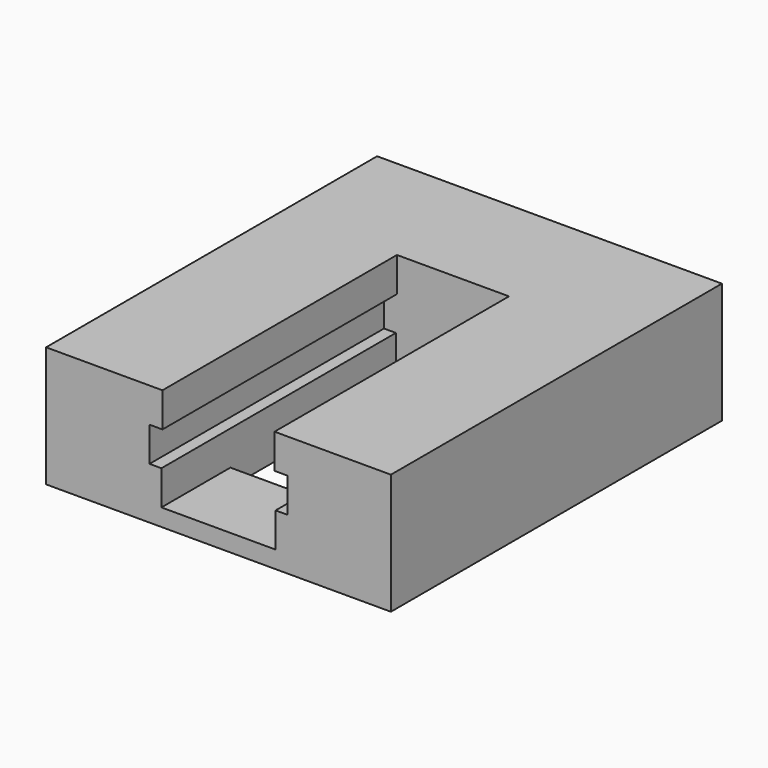
from build123d import *

# Parameters (mm, degrees)
F0_W     = 0.75
F0_H     = 2
F1_DEPTH = 12
F2_W     = 6.62
F2_H     = 2
F3_DEPTH = 12
F4_DEPTH = 8
F5_W     = 8
F5_H     = 4
F6_DEPTH = 4
F7_W     = 6.62
F7_H     = 12
F8_DEPTH = 3
F9_DEPTH = 3


with BuildPart() as f1:
    # F0 (on Front) → F1 (new body, symmetric)
    with BuildSketch(Plane.XZ):
        Polygon((-4, 4), (-10, 4), (-10, -3), (10, -3), (10, 4), (4, 4), (4, 2), (4, 0), (-4, 0), (-4, 2), align=None)
        with Locations((-3.625, 3)):
            Rectangle(F0_W, F0_H)
        with Locations((3.625, 3)):
            Rectangle(F0_W, F0_H)
    extrude(amount=F1_DEPTH, both=True)

    # F2 (on Front) → F3 (cut)
    with BuildSketch(Plane.XZ):
        with Locations((0, -1)):
            Rectangle(F2_W, F2_H)
    extrude(amount=F3_DEPTH, mode=Mode.SUBTRACT)

    # F2 (on Front) → F4 (cut)
    with BuildSketch(Plane.XZ):
        with Locations((0, -1)):
            Rectangle(F2_W, F2_H)
    extrude(amount=-F4_DEPTH, mode=Mode.SUBTRACT)

    # F5 (on Top) → F6 (join)
    with BuildSketch(Plane.XY):
        with Locations((0, 10)):
            Rectangle(F5_W, F5_H)
    extrude(amount=F6_DEPTH)

    # F7 (on Top) → F8 (cut)
    with BuildSketch(Plane.XY):
        with Locations((0, -1)):
            Rectangle(F7_W, F7_H)
    extrude(amount=-F8_DEPTH, mode=Mode.SUBTRACT)

    # F6_face (on face) → F9 (join)
    with BuildSketch(Plane(origin=(0, 8, 0.988636), x_dir=(1, 0, 0), z_dir=(0, -1, 0))):
        Polygon((-4, -0.988636), (-3.31, -0.988636), (-3.31, -2.988636), (3.31, -2.988636), (3.31, -0.988636), (4, -0.988636), (4, 1.011364), (3.25, 1.011364), (3.25, 3.011364), (-3.25, 3.011364), (-3.25, 1.011364), (-4, 1.011364), align=None)
    extrude(amount=F9_DEPTH)


solid = f1.part
